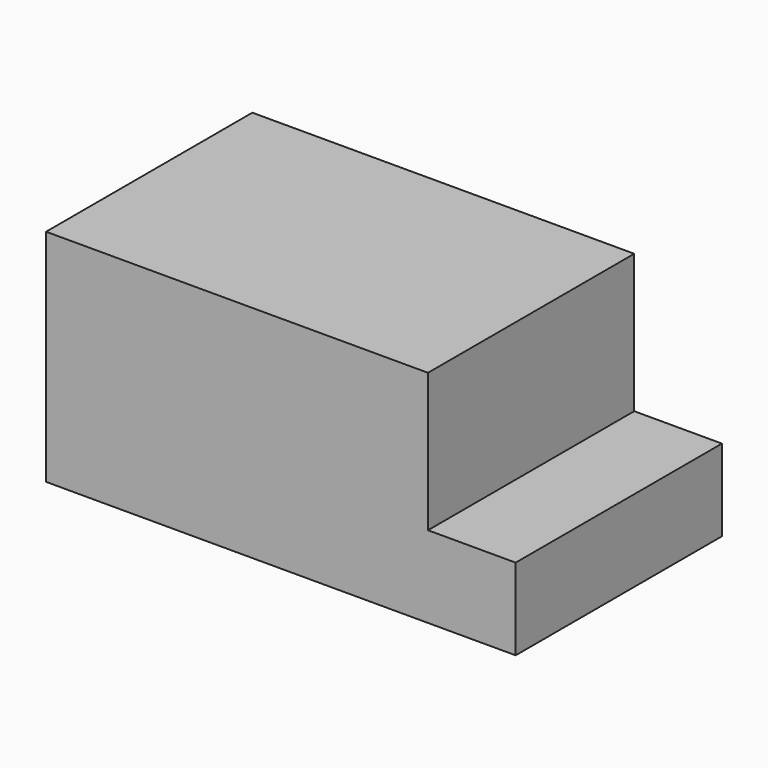
from build123d import *

# Parameters (mm, degrees)
F0_W     = 108.900543
F0_H     = 73.514726
F1_DEPTH = 62.8
F2_T     = -2.5
F3_W     = 73.514726
F3_H     = 23.275863
F4_DEPTH = 25
F5_W     = 12.069764
F5_H     = 6.524198
F6_DEPTH = 0.9


with BuildPart() as f1:
    # F0 (on Top) → F1 (new body)
    with BuildSketch(Plane.XY):
        with Locations((7.786243, -4.768794)):
            Rectangle(F0_W, F0_H)
    extrude(amount=F1_DEPTH)

    # F2
    f2_openings = [f1.faces().sort_by_distance(p)[0] for p in [
        (-46.664029, -4.768794, 31.4),
    ]]
    offset(amount=F2_T, openings=f2_openings)

    # F3 (on face) → F4 (join)
    with BuildSketch(Plane.YZ.offset(62.236514)):
        with Locations((-4.768794, 11.637931)):
            Rectangle(F3_W, F3_H)
    extrude(amount=F4_DEPTH)

    # F5 (on face) → F6 (join)
    with BuildSketch(Plane(origin=(59.736514, 0, 0), x_dir=(0, -1, 0), z_dir=(-1, 0, 0))):
        with Locations((-11.135888, 47.683492)):
            Rectangle(F5_W, F5_H)
        with Locations((11.135888, 47.683492)):
            Rectangle(F5_W, F5_H)
    extrude(amount=-F6_DEPTH)


solid = f1.part
